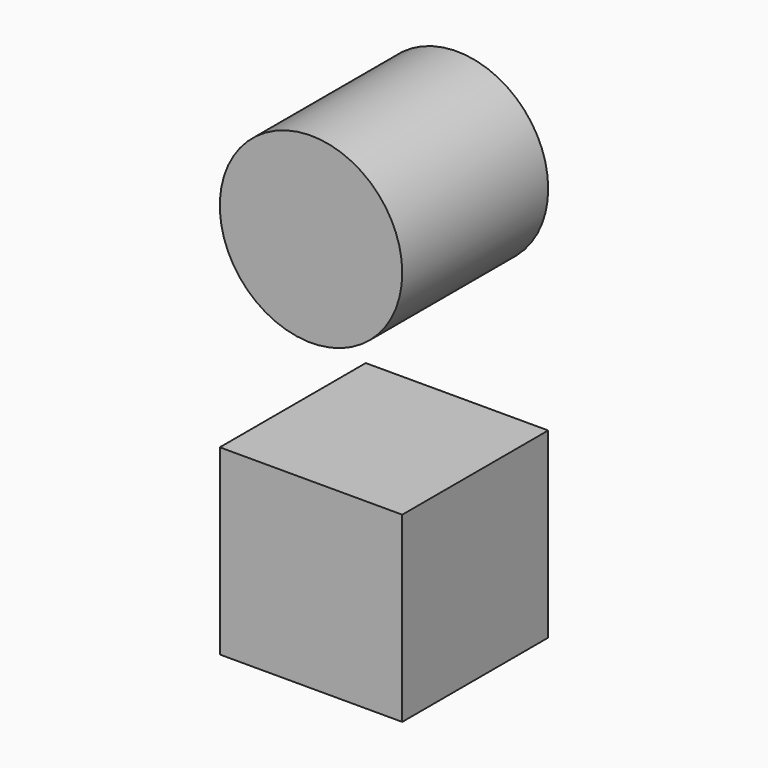
from build123d import *

# Parameters (mm, degrees)
F0_W     = 76.2
F0_H     = 76.2
F0_R     = 38.1
F1_DEPTH = 76.2


with BuildPart() as f1:
    # F0 (on Front) → F1 (new body)
    with BuildSketch(Plane.XZ):
        Rectangle(F0_W, F0_H)
        with Locations((0, 127)):
            Circle(F0_R)
    extrude(amount=F1_DEPTH)


solid = f1.part
